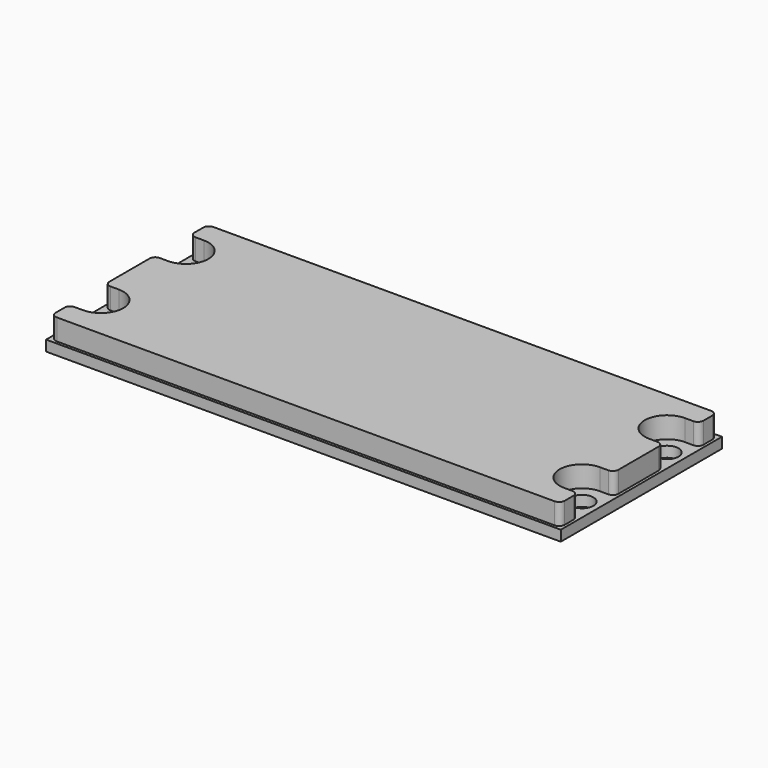
from build123d import *

# Parameters (mm, degrees)
F0_W     = 146.05
F0_H     = 57.15
F0_R     = 3.24
F1_DEPTH = 3
F2_DEPTH = 6
F3_R     = 1.588


with BuildPart() as f1:
    # F0 (on Top) → F1 (new body)
    with BuildSketch(Plane.XY):
        Rectangle(F0_W, F0_H)
        with Locations((-68.2625, -15.087)):
            Circle(F0_R, mode=Mode.SUBTRACT)
        with Locations((68.2625, -15.087)):
            Circle(F0_R, mode=Mode.SUBTRACT)
        with Locations((-68.2625, 15.087)):
            Circle(F0_R, mode=Mode.SUBTRACT)
        with BuildLine():
            Line((-72.225, 27.775), (72.225, 27.775))
            Line((72.225, 27.775), (72.225, 21.4375))
            Line((72.225, 21.4375), (68.2625, 21.4375))
            ThreePointArc((68.2625, 21.4375), (61.912, 15.087), (68.2625, 8.7365))
            Line((68.2625, 8.7365), (72.225, 8.7365))
            Line((72.225, 8.7365), (72.225, -8.7365))
            Line((72.225, -8.7365), (68.2625, -8.7365))
            ThreePointArc((68.2625, -8.7365), (61.912, -15.087), (68.2625, -21.4375))
            Line((68.2625, -21.4375), (72.225, -21.4375))
            Line((72.225, -21.4375), (72.225, -27.775))
            Line((72.225, -27.775), (-72.225, -27.775))
            Line((-72.225, -27.775), (-72.225, -21.4375))
            Line((-72.225, -21.4375), (-68.2625, -21.4375))
            ThreePointArc((-68.2625, -21.4375), (-61.912, -15.087), (-68.2625, -8.7365))
            Line((-68.2625, -8.7365), (-72.225, -8.7365))
            Line((-72.225, -8.7365), (-72.225, 8.7365))
            Line((-72.225, 8.7365), (-68.2625, 8.7365))
            ThreePointArc((-68.2625, 8.7365), (-61.912, 15.087), (-68.2625, 21.4375))
            Line((-68.2625, 21.4375), (-72.225, 21.4375))
            Line((-72.225, 21.4375), (-72.225, 27.775))
        make_face(mode=Mode.SUBTRACT)
        with Locations((68.2625, 15.087)):
            Circle(F0_R, mode=Mode.SUBTRACT)
        with BuildLine():
            Line((72.225, 21.4375), (72.225, 27.775))
            Line((72.225, 27.775), (-72.225, 27.775))
            Line((-72.225, 27.775), (-72.225, 21.4375))
            Line((-72.225, 21.4375), (-68.2625, 21.4375))
            ThreePointArc((-68.2625, 21.4375), (-61.912, 15.087), (-68.2625, 8.7365))
            Line((-68.2625, 8.7365), (-72.225, 8.7365))
            Line((-72.225, 8.7365), (-72.225, -8.7365))
            Line((-72.225, -8.7365), (-68.2625, -8.7365))
            ThreePointArc((-68.2625, -8.7365), (-61.912, -15.087), (-68.2625, -21.4375))
            Line((-68.2625, -21.4375), (-72.225, -21.4375))
            Line((-72.225, -21.4375), (-72.225, -27.775))
            Line((-72.225, -27.775), (72.225, -27.775))
            Line((72.225, -27.775), (72.225, -21.4375))
            Line((72.225, -21.4375), (68.2625, -21.4375))
            ThreePointArc((68.2625, -21.4375), (61.912, -15.087), (68.2625, -8.7365))
            Line((68.2625, -8.7365), (72.225, -8.7365))
            Line((72.225, -8.7365), (72.225, 8.7365))
            Line((72.225, 8.7365), (68.2625, 8.7365))
            ThreePointArc((68.2625, 8.7365), (61.912, 15.087), (68.2625, 21.4375))
            Line((68.2625, 21.4375), (72.225, 21.4375))
        make_face()
    extrude(amount=-F1_DEPTH)


with BuildPart() as f2:
    # F0 (on Top) → F2 (new body)
    with BuildSketch(Plane.XY):
        with BuildLine():
            Line((72.225, 21.4375), (72.225, 27.775))
            Line((72.225, 27.775), (-72.225, 27.775))
            Line((-72.225, 27.775), (-72.225, 21.4375))
            Line((-72.225, 21.4375), (-68.2625, 21.4375))
            ThreePointArc((-68.2625, 21.4375), (-61.912, 15.087), (-68.2625, 8.7365))
            Line((-68.2625, 8.7365), (-72.225, 8.7365))
            Line((-72.225, 8.7365), (-72.225, -8.7365))
            Line((-72.225, -8.7365), (-68.2625, -8.7365))
            ThreePointArc((-68.2625, -8.7365), (-61.912, -15.087), (-68.2625, -21.4375))
            Line((-68.2625, -21.4375), (-72.225, -21.4375))
            Line((-72.225, -21.4375), (-72.225, -27.775))
            Line((-72.225, -27.775), (72.225, -27.775))
            Line((72.225, -27.775), (72.225, -21.4375))
            Line((72.225, -21.4375), (68.2625, -21.4375))
            ThreePointArc((68.2625, -21.4375), (61.912, -15.087), (68.2625, -8.7365))
            Line((68.2625, -8.7365), (72.225, -8.7365))
            Line((72.225, -8.7365), (72.225, 8.7365))
            Line((72.225, 8.7365), (68.2625, 8.7365))
            ThreePointArc((68.2625, 8.7365), (61.912, 15.087), (68.2625, 21.4375))
            Line((68.2625, 21.4375), (72.225, 21.4375))
        make_face()
    extrude(amount=F2_DEPTH)

    # F3
    f3_edges = [f2.edges().sort_by_distance(p)[0] for p in [
        (-72.225, 27.775, 3),
        (-72.225, 21.4375, 3),
        (-72.225, 8.7365, 3),
        (-72.225, -8.7365, 3),
        (-72.225, -21.4375, 3),
        (-72.225, -27.775, 3),
        (72.225, 21.4375, 3),
        (72.225, -8.7365, 3),
        (72.225, -27.775, 3),
        (72.225, -21.4375, 3),
        (72.225, 8.7365, 3),
        (72.225, 27.775, 3),
    ]]
    fillet(f3_edges, radius=F3_R)


solid = Compound([f1.part, f2.part])
